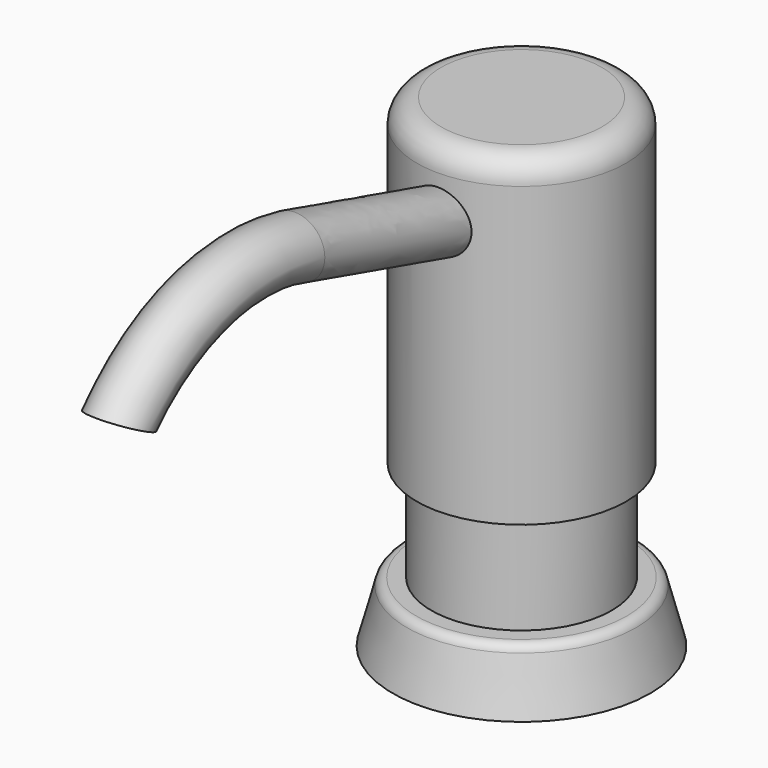
from build123d import *

# Parameters (mm, degrees)
F2_R = 3.81
F3_R = 1.524
F5_R = 4.7625


with BuildPart() as f1:
    # F0 (on Front) → F1 (revolve)
    with BuildSketch(Plane.XZ):
        Polygon((0, 76.2), (0, 0), (20.32, 0), (17.78, 9.525), (14.224, 9.525), (14.224, 25.4), (16.51, 25.4), (16.51, 76.2), align=None)
    revolve(axis=Axis((0, 0, 38.1), (0, 0, 1)))

    # F2
    f2_edges = [f1.edges().sort_by_distance(p)[0] for p in [
        (-16.51, 0, 76.2),
    ]]
    fillet(f2_edges, radius=F2_R)

    # F3
    f3_edges = [f1.edges().sort_by_distance(p)[0] for p in [
        (-17.78, 0, 9.525),
    ]]
    fillet(f3_edges, radius=F3_R)

    # F6: sweep along a path in F4
    with BuildLine(Plane.YZ) as f6_path:
        Line((0, 60.96), (-44.7385872582, 73.66))
        ThreePointArc((-44.7385872582, 73.66), (-63.5228620001, 73.5779674415), (-79.375, 63.5))
    # F5 (on Front) → F6 (sweep)
    with BuildSketch(Plane.XZ):
        with Locations((0, 60.96)):
            Circle(F5_R)
    sweep(path=f6_path.line)


solid = f1.part
